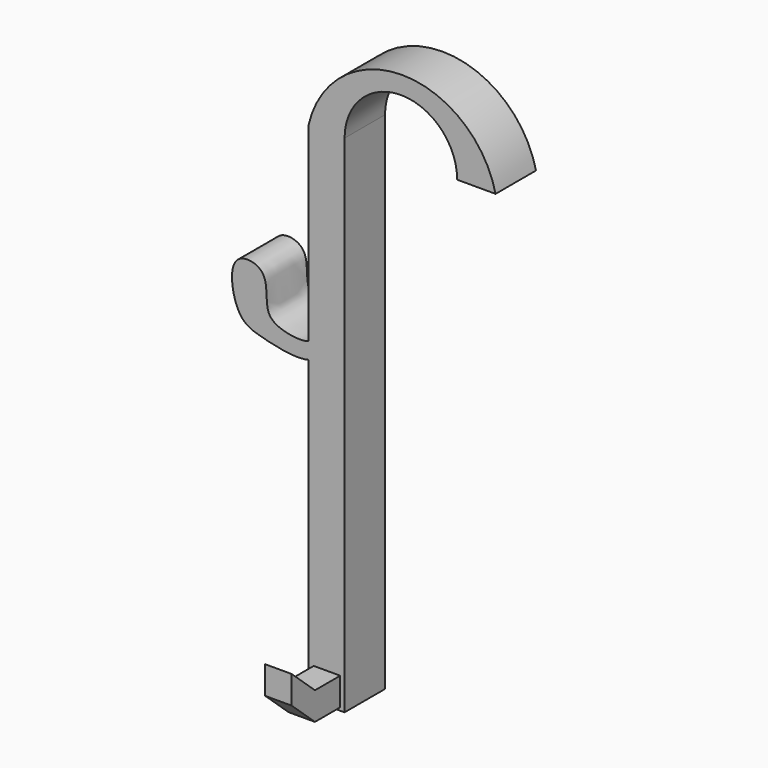
from build123d import *

# Parameters (mm, degrees)
F1_DEPTH = 8
F2_W     = 4.1889756103
F2_H     = 4.4094473124
F3_DEPTH = 5
F4_W     = 4.1889756103
F4_H     = 4.4094473124


with BuildPart() as f1:
    # F0 (on Front) → F1 (new body)
    with BuildSketch(Plane.XZ):
        with BuildLine():
            Line((-5.6911362045, 23.5146272514), (0, 23.5146272514))
            Line((0, 23.5146272514), (0, 103.5146272453))
            Line((0, 103.5146272453), (-5.6911362045, 103.5146272453))
            Line((-5.6911362045, 103.5146272453), (-5.6911362045, 73.3725061468))
            add(Edge.make_bspline(
                [(-5.6911362045, 73.3725061468), (-5.2400369665, 73.532293034), (-3.8829160463, 74.4895237189), (-4.3792185764, 77.2608984218), (-4.2464360595, 77.2318616509)],
                knots=[0.880405291, 0.880405291, 0.880405291, 0.880405291, 0.9131251645, 1, 1, 1, 1], degree=3))
            add(Edge.make_bspline(
                [(-4.2464360595, 77.2318616509), (-4.0717315525, 77.1936574141), (-2.6784869928, 72.353679993), (-4.9508164273, 70.9709791342), (-5.6911362045, 70.7758031209)],
                knots=[0, 0, 0, 0, 0.1143028891, 0.154813729, 0.154813729, 0.154813729, 0.154813729], degree=3))
            Line((-5.6911362045, 70.7758031209), (-5.6911362045, 23.5146272514))
        make_face()
        with BuildLine():
            Line((-5.6911362045, 103.5146272453), (0, 103.5146272453))
            ThreePointArc((0, 103.5146272453), (8.9093442206, 112.4239714658), (17.8186884412, 103.5146272453))
            Line((17.8186884412, 103.5146272453), (23.8950991203, 103.5146272453))
            ThreePointArc((23.8950991203, 103.5146272453), (9.1019814579, 115.2837040508), (-5.6911362045, 103.5146272453))
        make_face()
        with BuildLine():
            add(Edge.make_bspline(
                [(-5.6911362045, 70.7758031209), (-7.5968778877, 70.2733782562), (-13.535587282, 71.518168692), (-17.3680406013, 72.8897919436), (-18.7602062493, 82.3835434596), (-11.6096535592, 81.3714184658), (-12.944409148, 75.1095515572), (-10.012339693, 73.3998487887), (-6.7399124807, 73.0010120667), (-5.6911362045, 73.3725061468)],
                knots=[0.154813729, 0.154813729, 0.154813729, 0.154813729, 0.2590973082, 0.3705041035, 0.5012445974, 0.600422594, 0.7122203053, 0.8043337215, 0.880405291, 0.880405291, 0.880405291, 0.880405291], degree=3))
            add(Edge.make_bspline(
                [(-4.2464360595, 77.2318616509), (-4.0717315525, 77.1936574141), (-2.6784869928, 72.353679993), (-4.9508164273, 70.9709791342), (-5.6911362045, 70.7758031209)],
                knots=[0, 0, 0, 0, 0.1143028891, 0.154813729, 0.154813729, 0.154813729, 0.154813729], degree=3))
            add(Edge.make_bspline(
                [(-5.6911362045, 73.3725061468), (-5.2400369665, 73.532293034), (-3.8829160463, 74.4895237189), (-4.3792185764, 77.2608984218), (-4.2464360595, 77.2318616509)],
                knots=[0.880405291, 0.880405291, 0.880405291, 0.880405291, 0.9131251645, 1, 1, 1, 1], degree=3))
        make_face()
    extrude(amount=F1_DEPTH)

    # F2 (on face) → F3 (join)
    with BuildSketch(Plane.XZ.offset(8)):
        with Locations((-2.7859614638, 26.1941328645)):
            Rectangle(F2_W, F2_H)
    extrude(amount=F3_DEPTH)

    # F6: sweep along a path in F5
    with BuildLine(Plane.YZ.offset(-0.6914736587)) as f6_path:
        Line((-13, 28.3988565207), (-17.606055364, 32.5410738587))
    # F4 (on face) → F6 (sweep)
    with BuildSketch(Plane.XZ.offset(13)):
        with Locations((-2.7859614638, 26.1941328645)):
            Rectangle(F4_W, F4_H)
    sweep(path=f6_path.line)


solid = f1.part
